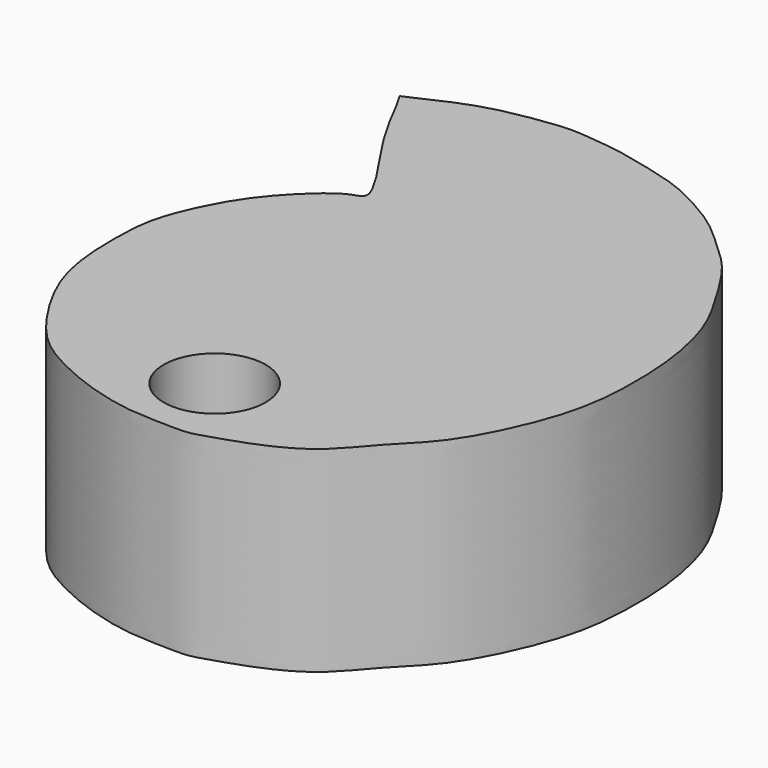
from build123d import *

# Parameters (mm, degrees)
F0_R     = 3.302
F1_DEPTH = 12.7


with BuildPart() as f1:
    # F0 (on Top) → F1 (new body)
    with BuildSketch(Plane.XY):
        with BuildLine():
            add(Edge.make_bspline(
                [(-12.3558722991, 30.3957169038), (-11.351406124, 30.8647520019), (-9.4619540228, 31.7470309414), (-7.2444095564, 32.4563853444), (-3.6758509397, 33.010372352), (-2.1859909733, 32.8752911537), (-0.3250174324, 32.6853326118), (0.9760262988, 32.4126033451), (2.3173595885, 32.0969329052), (3.5940577198, 31.7647520017), (5.0907221822, 31.2906211963), (7.0626661997, 30.2447564502), (8.8078649305, 29.1227199029), (10.3605910117, 27.6402575815), (12.1433960885, 26.0882038671), (13.9979737334, 23.0268786159), (15.5535740699, 20.3302944361), (16.4314276695, 16.4169560778), (16.5233562859, 12.2730120427), (16.0646439554, 8.2696335738), (13.4048372323, 2.4557698356), (10.6654117139, 0.1247821198), (8.4544124882, -2.9868041339), (4.2062334558, -4.4852244987), (3.1825722363, -4.7665350042), (2.2435031352, -5.119602162), (0.7921645086, -5.0282157969), (0.5690358309, -5.0289022504), (0.322504875, -5.0464076474), (-0.2891966098, -5.0126857436), (-1.3651262118, -4.9630035929), (-2.6220765784, -4.7726995138), (-4.8151482886, -4.2128985749), (-7.6344336854, -2.9890238898), (-9.9051032346, -1.4873428281), (-12.2385019793, 1.8493973006), (-13.807238696, 5.3597237817), (-13.9056027592, 9.7389785784), (-13.7001076908, 12.2792607296), (-12.3810990837, 15.3467083857), (-10.7747523407, 17.8417486535), (-7.950437865, 20.5480039888), (-6.097502655, 20.6250618333), (-9.9513485452, 25.7679431136), (-11.2092428373, 28.2635066643), (-11.8160859822, 29.4674358361)],
                knots=[0, 0, 0, 0, 0.0264809769, 0.049812068, 0.0776436375, 0.0963235434, 0.1162517172, 0.1336512533, 0.150958526, 0.1679831157, 0.1866156872, 0.2088734463, 0.2304705996, 0.2520107453, 0.2749451248, 0.3028988127, 0.3294017249, 0.3589704096, 0.3890726007, 0.4193576588, 0.456473849, 0.4847044434, 0.5138342841, 0.5447445472, 0.5598423333, 0.5748177502, 0.5925025973, 0.599367772, 0.6062687262, 0.6177873276, 0.6332293338, 0.6499714437, 0.6723443196, 0.6984607976, 0.7230341061, 0.7526276223, 0.7822709586, 0.8129514351, 0.8369128296, 0.8633545005, 0.89006358, 0.9191916309, 0.9336685587, 0.9679998703, 1, 1, 1, 1], degree=3))
            Line((-12.3558722991, 30.3957169038), (-11.8160859822, 29.4674358361))
        make_face()
        Circle(F0_R, mode=Mode.SUBTRACT)
    extrude(amount=F1_DEPTH)


solid = f1.part
